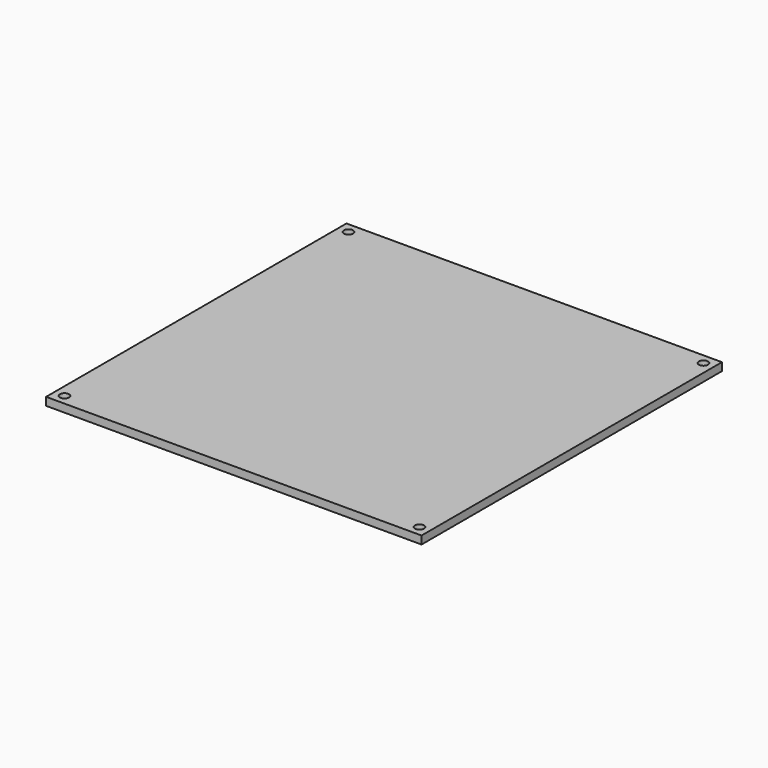
from build123d import *

# Parameters (mm, degrees)
F0_W     = 330
F0_H     = 330
F0_W_2   = 300
F0_H_2   = 300
F1_DEPTH = 7
F2_DEPTH = 3
F3_R     = 4
F4_DEPTH = 8


with BuildPart() as f1:
    # F0 (on Top) → F1 (new body)
    with BuildSketch(Plane.XY):
        Rectangle(F0_W, F0_H)
        Rectangle(F0_W_2, F0_H_2, mode=Mode.SUBTRACT)
        Rectangle(F0_W_2, F0_H_2)
    extrude(amount=F1_DEPTH)

    # F0 (on Top) → F2 (join)
    with BuildSketch(Plane.XY):
        Rectangle(F0_W_2, F0_H_2)
    extrude(amount=-F2_DEPTH)

    # F3 (on Top) → F4 (cut)
    with BuildSketch(Plane.XY):
        with Locations((-156, 156)):
            Circle(F3_R)
        with Locations((156, 156)):
            Circle(F3_R)
        with Locations((156, -156)):
            Circle(F3_R)
        with Locations((-156, -156)):
            Circle(F3_R)
    extrude(amount=F4_DEPTH, mode=Mode.SUBTRACT)


solid = f1.part
